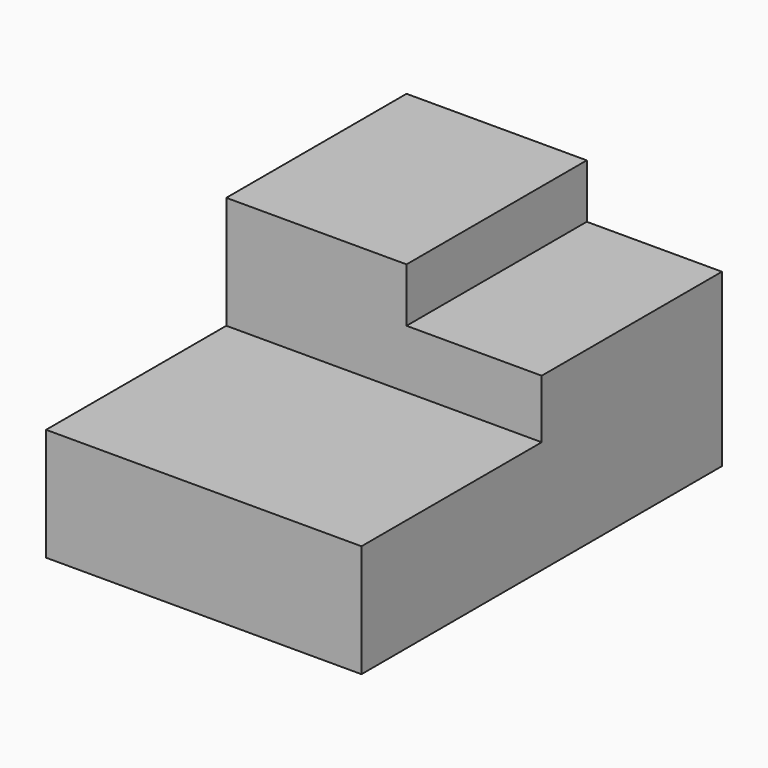
from build123d import *

# Parameters (mm, degrees)
F0_W     = 88.9
F0_H     = 127
F1_DEPTH = 63.5
F2_W     = 38.1
F2_H     = 63.5
F3_DEPTH = 15.24
F5_DEPTH = 31.75


with BuildPart() as f1:
    # F0 (on Top) → F1 (new body)
    with BuildSketch(Plane.XY):
        with Locations((-0.36866225, 6.5260546505)):
            Rectangle(F0_W, F0_H)
    extrude(amount=F1_DEPTH)

    # F2 (on face) → F3 (cut)
    with BuildSketch(Plane.XY.offset(63.5)):
        with Locations((25.03133775, 38.2760546505)):
            Rectangle(F2_W, F2_H)
    extrude(amount=-F3_DEPTH, mode=Mode.SUBTRACT)

    # F4 (on face) → F5 (cut)
    with BuildSketch(Plane.XY.offset(63.5)):
        Polygon((44.08133775, 6.5260546505), (5.98133775, 6.5260546505), (-44.81866225, 6.5260546505), (-44.81866225, -56.9739453495), (44.08133775, -56.9739453495), align=None)
    extrude(amount=-F5_DEPTH, mode=Mode.SUBTRACT)


solid = f1.part
